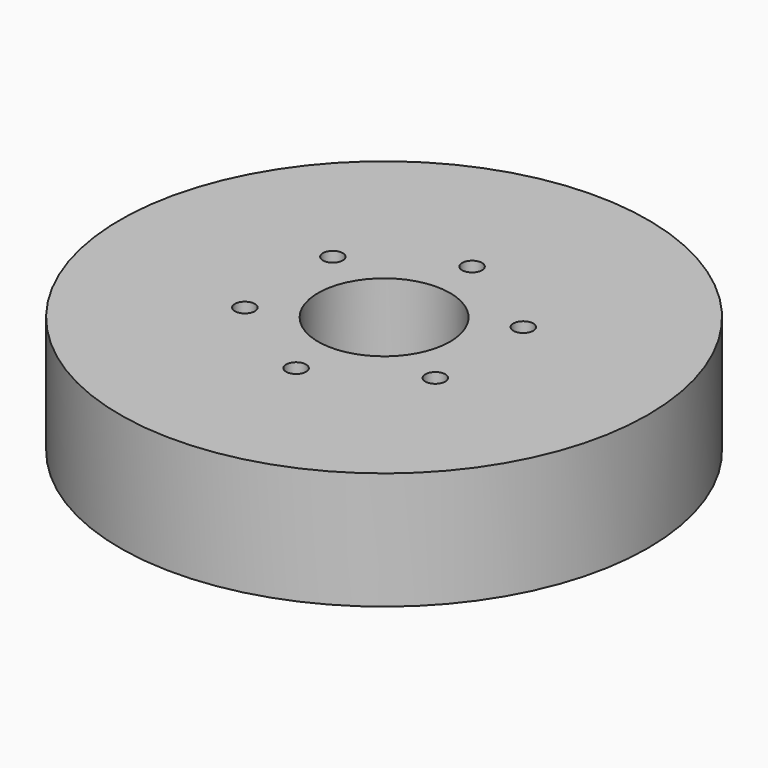
from build123d import *

# Parameters (mm, degrees)
F0_R     = 57.15
F0_R_2   = 2.159
F0_R_3   = 14.2875
F1_DEPTH = 25.4


with BuildPart() as f1:
    # F0 (on Top) → F1 (new body)
    with BuildSketch(Plane.XY):
        Circle(F0_R)
        with Locations((-20.62223, -11.90625)):
            Circle(F0_R_2, mode=Mode.SUBTRACT)
        with Locations((0, -23.8125)):
            Circle(F0_R_2, mode=Mode.SUBTRACT)
        with Locations((20.62223, -11.90625)):
            Circle(F0_R_2, mode=Mode.SUBTRACT)
        with Locations((-20.62223, 11.90625)):
            Circle(F0_R_2, mode=Mode.SUBTRACT)
        Circle(F0_R_3, mode=Mode.SUBTRACT)
        with Locations((20.62223, 11.90625)):
            Circle(F0_R_2, mode=Mode.SUBTRACT)
        with Locations((0, 23.8125)):
            Circle(F0_R_2, mode=Mode.SUBTRACT)
    extrude(amount=F1_DEPTH)


solid = f1.part
